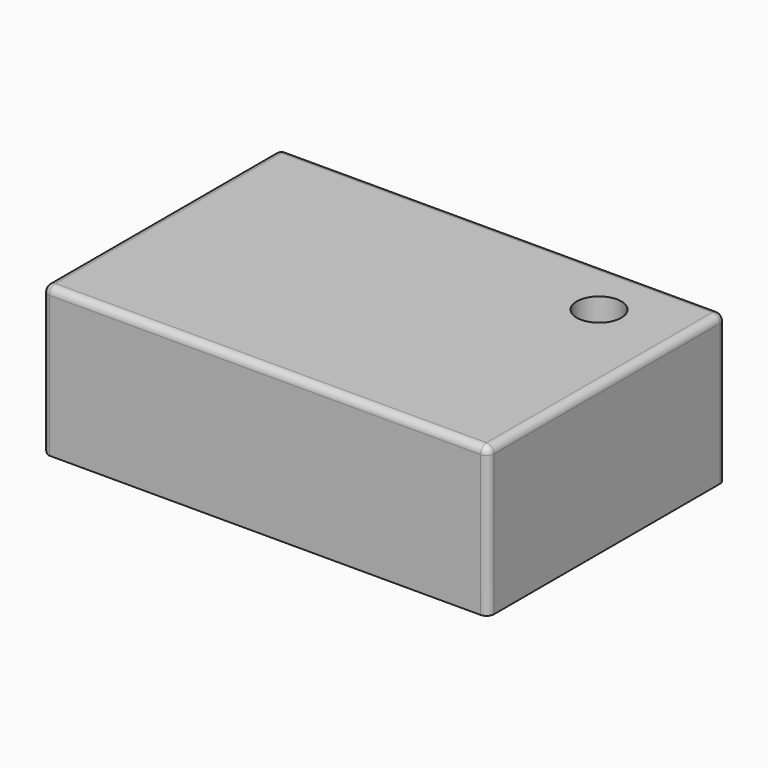
from build123d import *

# Parameters (mm, degrees)
F0_W     = 300
F0_H     = 200
F0_R     = 15
F1_DEPTH = 100
F2_R     = 5


with BuildPart() as f1:
    # F0 (on Top) → F1 (new body)
    with BuildSketch(Plane.XY):
        with Locations((1.263371, 9.330785)):
            Rectangle(F0_W, F0_H)
        with Locations((97.774066, 69.591478)):
            Circle(F0_R, mode=Mode.SUBTRACT)
    extrude(amount=F1_DEPTH)

    # F2
    f2_edges = [f1.edges().sort_by_distance(p)[0] for p in [
        (-148.736629, 109.330785, 50),
        (151.263371, 109.330785, 50),
        (1.263371, 109.330785, 100),
        (151.263371, 9.330785, 100),
        (-148.736629, 9.330785, 100),
        (1.263371, -90.669215, 100),
        (-148.736629, -90.669215, 50),
        (-148.736629, 9.330785, 0),
        (151.263371, -90.669215, 50),
    ]]
    fillet(f2_edges, radius=F2_R)


solid = f1.part
